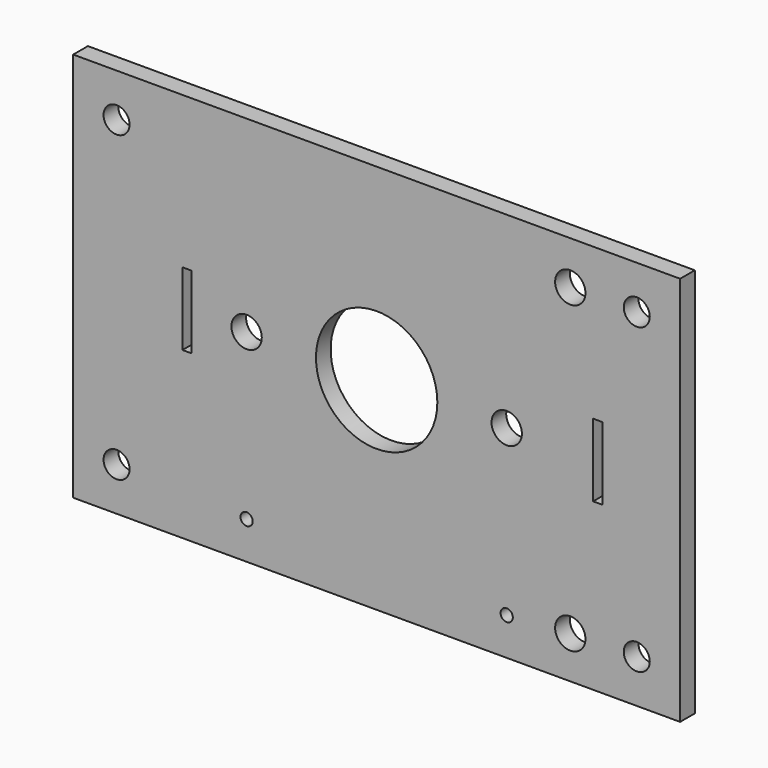
from build123d import *

# Parameters (mm, degrees)
F0_W     = 209.999986
F0_H     = 135.000009
F0_R     = 4.499991
F0_R_2   = 2.116988
F0_R_3   = 5.250002
F0_W_2   = 3.199994
F0_H_2   = 25.2
F0_R_4   = 21.000009
F0_W_3   = 3.199993
F1_DEPTH = 6.35


with BuildPart() as f1:
    # F0 (on Front) → F1 (new body)
    with BuildSketch(Plane.XZ):
        with Locations((0, -1.3e-05)):
            Rectangle(F0_W, F0_H)
        with Locations((-89.999998, -52.499997)):
            Circle(F0_R, mode=Mode.SUBTRACT)
        with Locations((-45.000012, -54.500018)):
            Circle(F0_R_2, mode=Mode.SUBTRACT)
        with Locations((45.000012, -54.500018)):
            Circle(F0_R_2, mode=Mode.SUBTRACT)
        with Locations((66.999993, -52.908505)):
            Circle(F0_R_3, mode=Mode.SUBTRACT)
        with Locations((89.999998, -52.499997)):
            Circle(F0_R, mode=Mode.SUBTRACT)
        with Locations((-65.599996, 2.399995)):
            Rectangle(F0_W_2, F0_H_2, mode=Mode.SUBTRACT)
        with Locations((-44.999986, 2.499995)):
            Circle(F0_R_3, mode=Mode.SUBTRACT)
        with Locations((0, 2.499995)):
            Circle(F0_R_4, mode=Mode.SUBTRACT)
        with Locations((-89.999998, 52.499997)):
            Circle(F0_R, mode=Mode.SUBTRACT)
        with Locations((45.000012, 2.499995)):
            Circle(F0_R_3, mode=Mode.SUBTRACT)
        with Locations((76.5, 2.499995)):
            Rectangle(F0_W_3, F0_H_2, mode=Mode.SUBTRACT)
        with Locations((66.999993, 52.499997)):
            Circle(F0_R_3, mode=Mode.SUBTRACT)
        with Locations((89.999998, 52.499997)):
            Circle(F0_R, mode=Mode.SUBTRACT)
    extrude(amount=F1_DEPTH)


solid = f1.part
